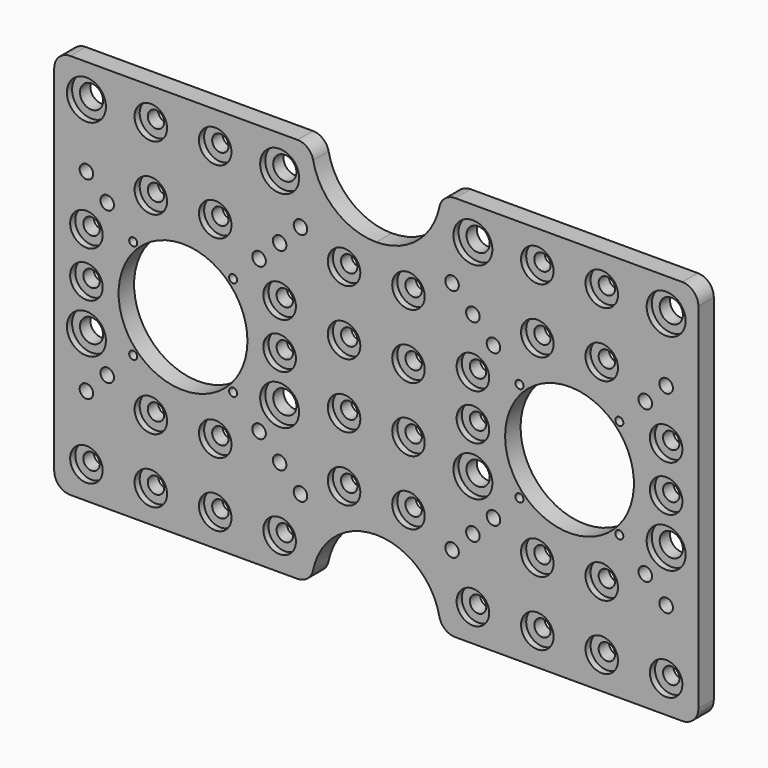
from build123d import *

# Parameters (mm, degrees)
F0_R           = 20
F1_DEPTH       = 6
F2_D           = 5.1
F2_CBORE_D     = 10.1
F2_CBORE_DEPTH = 2
F3_D           = 7.2
F3_CBORE_D     = 12.1
F3_CBORE_DEPTH = 2
F4_D           = 4.2
F5_D           = 2.5


with BuildPart() as f1:
    # F0 (on Front) → F1 (new body)
    with BuildSketch(Plane.XZ):
        with BuildLine():
            ThreePointArc((0, 5), (1.4644660941, 1.4644660941), (5, 0))
            Line((5, 0), (75.5051025722, 0))
            ThreePointArc((75.5051025722, 0), (78.6673802323, 1.1270166538), (80.4040820577, 4))
            ThreePointArc((80.4040820577, 4), (87.3508893593, 15.4919333848), (100, 20))
            Line((100, 20), (100, 100))
            ThreePointArc((100, 100), (87.3508893593, 104.5080666152), (80.4040820577, 116))
            ThreePointArc((80.4040820577, 116), (78.6673802323, 118.8729833462), (75.5051025722, 120))
            Line((75.5051025722, 120), (5, 120))
            ThreePointArc((5, 120), (1.4644660941, 118.5355339059), (0, 115))
            Line((0, 115), (0, 5))
        make_face()
        with Locations((40, 60)):
            Circle(F0_R, mode=Mode.SUBTRACT)
    extrude(amount=-F1_DEPTH)

    # F2 (through all)
    with Locations(Plane.XZ):
        with Locations((10, 10), (30, 10), (50, 10), (70, 10), (50, 30), (30, 30), (90, 30), (90, 50), (90, 70), (90, 90), (50, 90), (50, 110), (30, 110), (30, 90), (70, 60), (10, 60), (70, 74.25), (10, 74.25)):
            CounterBoreHole(F2_D / 2, F2_CBORE_D / 2, F2_CBORE_DEPTH)

    # F3 (through all)
    with Locations(Plane.XZ):
        with Locations((10, 109.7), (70, 109.7), (10, 45.75), (70, 45.75)):
            CounterBoreHole(F3_D / 2, F3_CBORE_D / 2, F3_CBORE_DEPTH)

    # F4 (through all)
    with Locations(Plane.XZ):
        with Locations((16.4681934289, 36.4681934289), (10, 30), (16.4681934289, 83.6081934289), (10, 90), (63.6081934289, 83.6081934289), (70, 90), (76.4681934289, 96.4681934289), (76.4681934289, 23.5318065711), (70, 30), (63.6081934289, 36.4681934289)):
            Hole(F4_D / 2)

    # F5 (through all)
    with Locations(Plane.XZ):
        with Locations((55.5384031226, 44.5384031226), (55.5384031226, 75.5384031226), (24.5384031226, 75.5384031226), (24.5384031226, 44.5384031226)):
            Hole(F5_D / 2)

    # F6: F1 across face


with BuildPart() as f1_1:
    add(f1.part)
    add(f1.part.mirror(Plane(origin=(100, 3, 60), x_dir=(0, 1, 0), z_dir=(1, 0, 0))))


solid = f1_1.part
